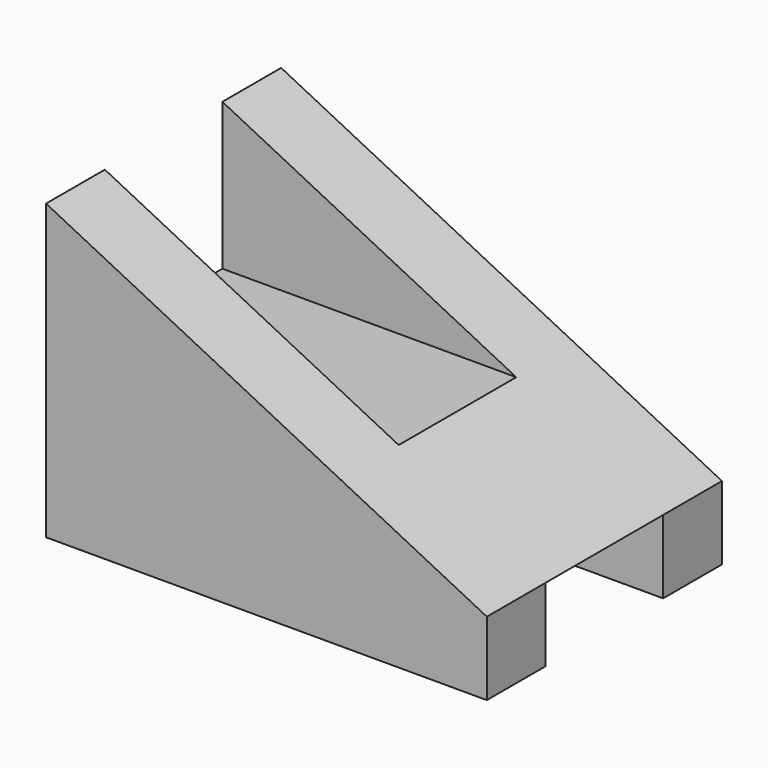
from build123d import *

# Parameters (mm, degrees)
F1_DEPTH = 10
F2_W     = 10
F2_H     = 10
F2_H_2   = 5
F3_DEPTH = 30.001


with BuildPart() as f1:
    # F0 (on Front) → F1 (new body, symmetric)
    with BuildSketch(Plane.XZ):
        Polygon((0, 20), (0, 0), (30, 0), (30, 5), align=None)
    extrude(amount=F1_DEPTH, both=True)

    # F2 (on face) → F3 (cut, through all)
    with BuildSketch(Plane(origin=(0, 0, 0), x_dir=(0, -1, 0), z_dir=(-1, 0, 0))):
        with Locations((0, 15)):
            Rectangle(F2_W, F2_H)
        with Locations((0, 2.5)):
            Rectangle(F2_W, F2_H_2)
    extrude(amount=-F3_DEPTH, mode=Mode.SUBTRACT)


solid = f1.part
